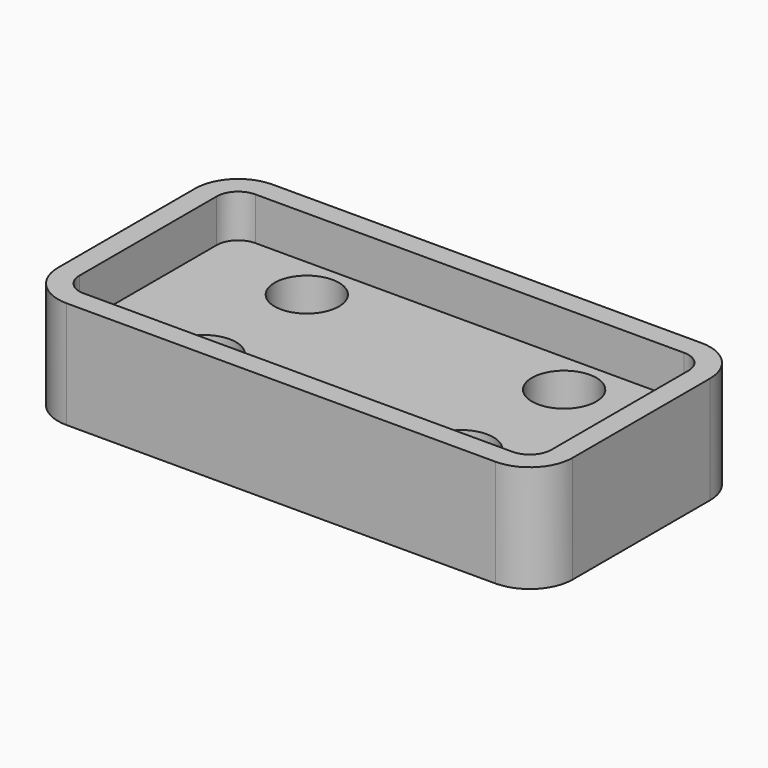
from build123d import *

# Parameters (mm, degrees)
F1_DEPTH = 25
F0_R     = 7.5
F2_DEPTH = 15


with BuildPart() as f1:
    # F0 (on Top) → F1 (new body)
    with BuildSketch(Plane.XY):
        with BuildLine():
            ThreePointArc((-60, -20), (-57.071068, -27.071068), (-50, -30))
            Line((-50, -30), (50, -30))
            ThreePointArc((50, -30), (57.071068, -27.071068), (60, -20))
            Line((60, -20), (60, 20))
            ThreePointArc((60, 20), (57.071068, 27.071068), (50, 30))
            Line((50, 30), (-50, 30))
            ThreePointArc((-50, 30), (-57.071068, 27.071068), (-60, 20))
            Line((-60, 20), (-60, -20))
        make_face()
        with BuildLine():
            ThreePointArc((-55, 20), (-53.535534, 23.535534), (-50, 25))
            Line((-50, 25), (50, 25))
            ThreePointArc((50, 25), (53.535534, 23.535534), (55, 20))
            Line((55, 20), (55, -20))
            ThreePointArc((55, -20), (53.535534, -23.535534), (50, -25))
            Line((50, -25), (-50, -25))
            ThreePointArc((-50, -25), (-53.535534, -23.535534), (-55, -20))
            Line((-55, -20), (-55, 20))
        make_face(mode=Mode.SUBTRACT)
    extrude(amount=F1_DEPTH)

    # F0 (on Top) → F2 (join)
    with BuildSketch(Plane.XY):
        with BuildLine():
            Line((50, 25), (-50, 25))
            ThreePointArc((-50, 25), (-53.535534, 23.535534), (-55, 20))
            Line((-55, 20), (-55, -20))
            ThreePointArc((-55, -20), (-53.535534, -23.535534), (-50, -25))
            Line((-50, -25), (50, -25))
            ThreePointArc((50, -25), (53.535534, -23.535534), (55, -20))
            Line((55, -20), (55, 20))
            ThreePointArc((55, 20), (53.535534, 23.535534), (50, 25))
        make_face()
        with Locations((-30, -15)):
            Circle(F0_R, mode=Mode.SUBTRACT)
        with Locations((30, -15)):
            Circle(F0_R, mode=Mode.SUBTRACT)
        with Locations((-30, 15)):
            Circle(F0_R, mode=Mode.SUBTRACT)
        with Locations((30, 15)):
            Circle(F0_R, mode=Mode.SUBTRACT)
    extrude(amount=F2_DEPTH)


solid = f1.part
